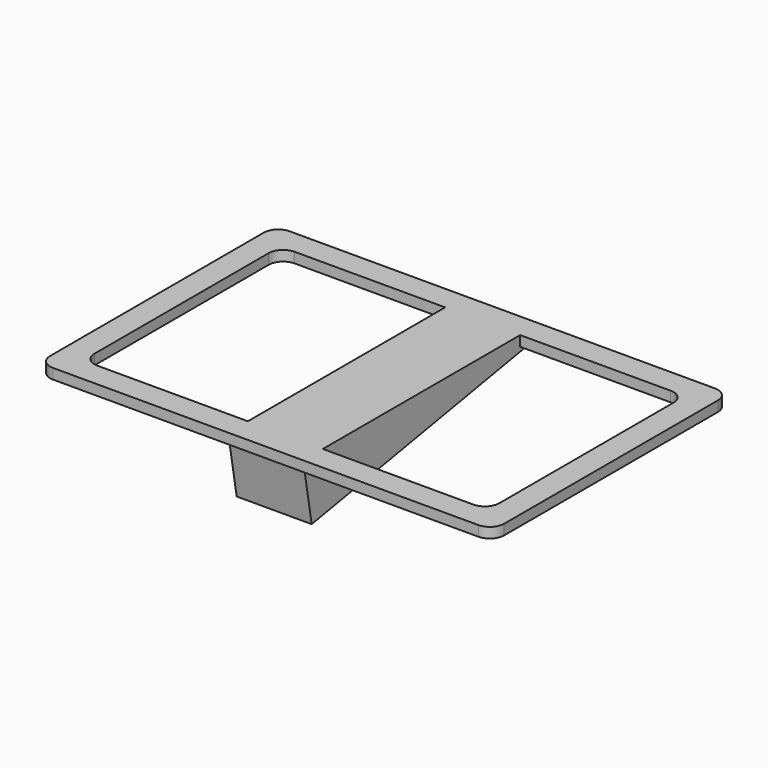
from build123d import *

# Parameters (mm, degrees)
PAD_DEPTH    = 5
PAD001_DEPTH = 18.25


with BuildPart() as part:
    # Sketch → Pad (new body)
    with BuildSketch(Plane.XY):
        with BuildLine():
            Line((7, 0), (214, 0))
            ThreePointArc((221, -7), (218.949747, -2.050253), (214, 0))
            Line((221, -7), (221, -137))
            ThreePointArc((214, -144), (218.949747, -141.949747), (221, -137))
            Line((214, -144), (7, -144))
            ThreePointArc((0, -137), (2.050253, -141.949747), (7, -144))
            Line((0, -137), (0, -7))
            ThreePointArc((7, 0), (2.050253, -2.050253), (0, -7))
        make_face()
        with BuildLine():
            Line((19, -12), (202, -12))
            ThreePointArc((209, -19), (206.949747, -14.050253), (202, -12))
            Line((209, -19), (209, -125))
            ThreePointArc((202, -132), (206.949747, -129.949747), (209, -125))
            Line((202, -132), (19, -132))
            ThreePointArc((12, -125), (14.050253, -129.949747), (19, -132))
            Line((12, -125), (12, -19))
            ThreePointArc((19, -12), (14.050253, -14.050253), (12, -19))
        make_face(mode=Mode.SUBTRACT)
    extrude(amount=PAD_DEPTH)

    # Sketch001 (on DatumPlane) → Pad001 (join, symmetric)
    with BuildSketch(Plane.YZ.offset(110.5)):
        Polygon((0, 0), (-138.802818, -24.474682), (-144, 5), (0, 5), align=None)
    extrude(amount=PAD001_DEPTH, both=True)


solid = part.part
